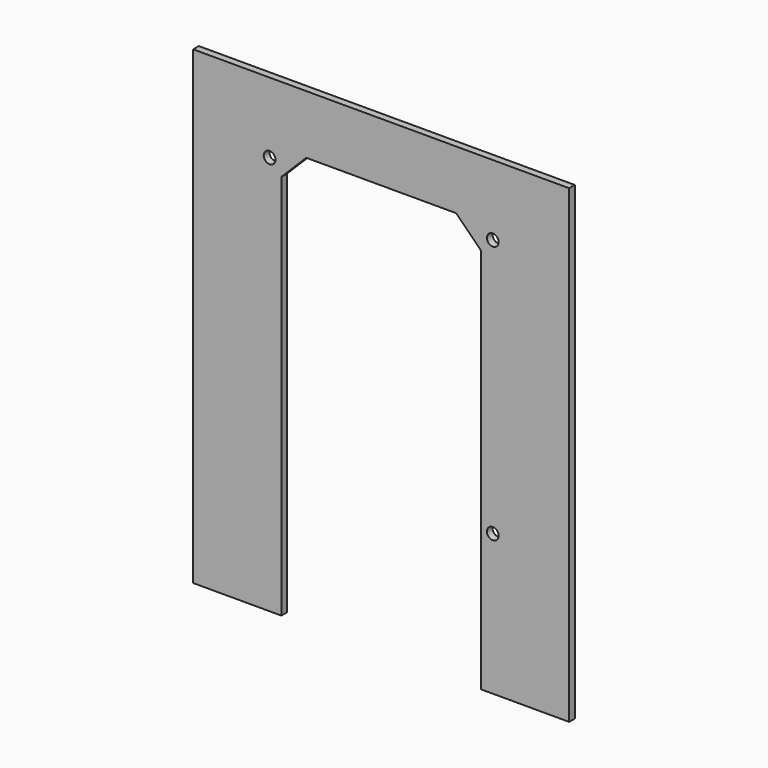
from build123d import *

# Parameters (mm, degrees)
F0_W     = 160
F0_H     = 200
F1_DEPTH = 3
F2_D     = 5
F4_DEPTH = 25


with BuildPart() as f1:
    # F0 (on Front) → F1 (new body)
    with BuildSketch(Plane.XZ):
        with Locations((0, 100)):
            Rectangle(F0_W, F0_H)
    extrude(amount=F1_DEPTH)

    # F2 (through all)
    with Locations(Plane(origin=(0, 0, 0), x_dir=(1, 0, 0), z_dir=(0, 1, 0))):
        with Locations((47.5, -170), (-47.5, -170), (47.5, -60)):
            Hole(F2_D / 2)

    # F3 (on face) → F4 (cut)
    with BuildSketch(Plane.XZ.offset(3)):
        Polygon((-31.8933982822, 175), (-42.5, 164.3933982822), (-42.5, 0), (42.5, 0), (42.5, 164.3933982822), (31.8933982822, 175), align=None)
    extrude(amount=-F4_DEPTH, mode=Mode.SUBTRACT)


solid = f1.part
